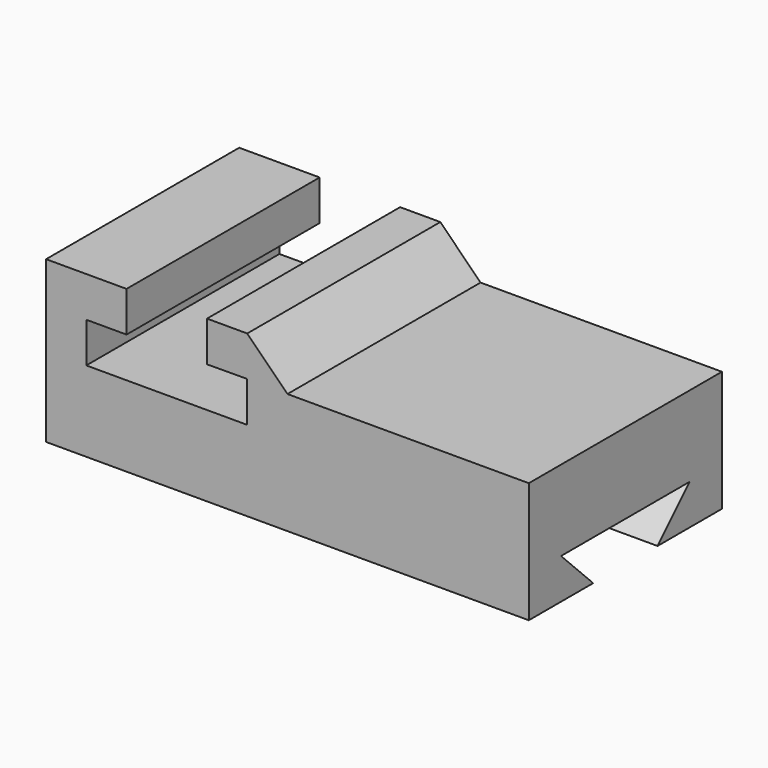
from build123d import *

# Parameters (mm, degrees)
F1_DEPTH = 76.2
F3_DEPTH = 25.4
F5_DEPTH = 76.2


with BuildPart() as f1:
    # F0 (on Front) → F1 (new body)
    with BuildSketch(Plane.XZ):
        Polygon((0, 50.8), (0, 0), (152.4, 0), (152.4, 38.1), (76.2, 38.1), (76.2, 50.8), (50.8, 50.8), (50.8, 38.1), (63.5, 38.157292), (63.5, 25.4), (12.7, 25.4), (12.7, 38.1), (25.4, 38.1), (25.4, 50.8), align=None)
    extrude(amount=-F1_DEPTH)

    # F2 (on face) → F3 (cut)
    with BuildSketch(Plane.YZ.offset(152.4)):
        Polygon((12.7, 12.7), (25.4, 0), (50.8, 0), (63.5, 12.7), align=None)
    extrude(amount=-F3_DEPTH, mode=Mode.SUBTRACT)

    # F4 (on face) → F5 (cut)
    with BuildSketch(Plane.XZ):
        Polygon((76.2, 50.8), (63.5, 50.8), (76.2, 38.1), align=None)
    extrude(amount=-F5_DEPTH, mode=Mode.SUBTRACT)


solid = f1.part
